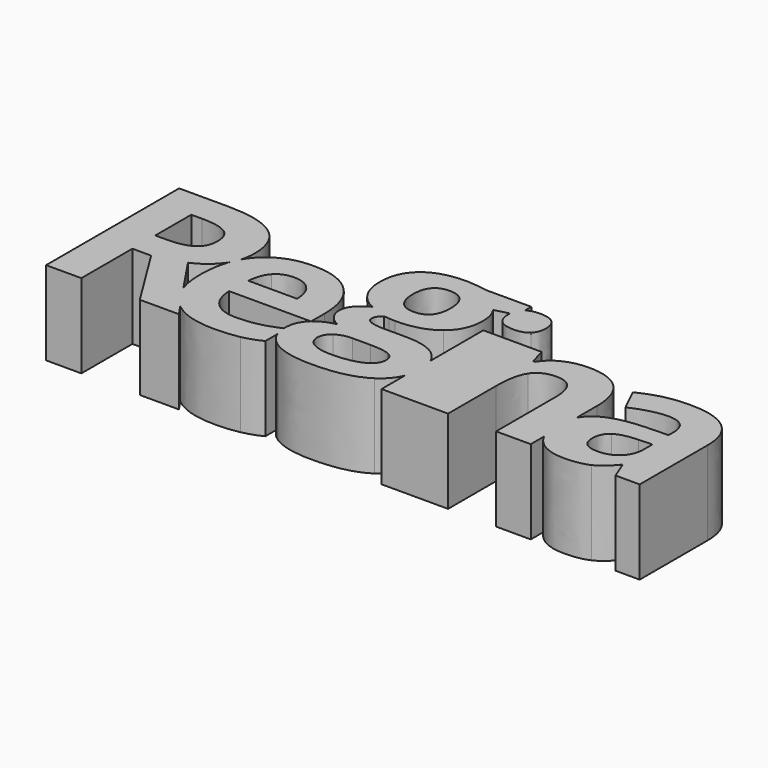
from build123d import *

# Parameters (mm, degrees)
F0_W     = 0.3376736111
F0_H     = 15.1649305556
F1_DEPTH = 10


with BuildPart() as f1:
    # F0 (on Top) → F1 (new body)
    with BuildSketch(Plane.XY):
        with BuildLine():
            Line((-92.0751941894, 48.5106287383), (-92.0751941894, 56.1191356828))
            Line((-92.0751941894, 56.1191356828), (-89.8399511338, 56.1191356828))
            Line((-89.8399511338, 56.1191356828), (-85.1047080783, 48.5106287383))
            Line((-85.1047080783, 48.5106287383), (-80.4389094672, 48.5106287383))
            add(Edge.make_bspline(
                [(-81.3450752093, 49.8327610005), (-80.7880974221, 49.0142652119), (-80.4389094672, 48.5106287383)],
                knots=[0.7421381255, 0.7421381255, 0.7421381255, 1, 1, 1], degree=2))
            add(Edge.make_bspline(
                [(-81.3450752093, 49.8327610005), (-81.5955524358, 50.0336184279), (-81.8260622449, 50.2597606828)],
                knots=[0.8881906105, 0.8881906105, 0.8881906105, 1, 1, 1], degree=2))
            add(Edge.make_bspline(
                [(-81.8260622449, 50.2597606828), (-82.9494876739, 51.3619001563), (-83.4607356006, 52.9628031948)],
                knots=[0, 0, 0, 0.5449204607, 0.5449204607, 0.5449204607], degree=2))
            add(Edge.make_bspline(
                [(-86.2722428005, 57.1521217939), (-84.6654101186, 54.7527718299), (-83.4607356006, 52.9628031948)],
                knots=[0, 0, 0, 0.3587347383, 0.3587347383, 0.3587347383], degree=2))
            add(Edge.make_bspline(
                [(-83.5443782172, 59.2875384605), (-84.5057497449, 57.9246912383), (-86.2722428005, 57.1521217939)],
                knots=[0, 0, 0, 1, 1, 1], degree=2))
            add(Edge.make_bspline(
                [(-83.3169283795, 59.6378595859), (-83.4229896752, 59.4596197344), (-83.5443782172, 59.2875384605)],
                knots=[0.8737339952, 0.8737339952, 0.8737339952, 1, 1, 1], degree=2))
            add(Edge.make_bspline(
                [(-83.3169283795, 59.6378595859), (-83.1169468888, 60.1870993216), (-82.8468970867, 60.6727349067)],
                knots=[0.547315758, 0.547315758, 0.547315758, 0.7390809605, 0.7390809605, 0.7390809605], degree=2))
            add(Edge.make_bspline(
                [(-82.5830066894, 62.3995176272), (-82.5830066894, 61.4831099117), (-82.8468970867, 60.6727349067)],
                knots=[0, 0, 0, 0.5239214334, 0.5239214334, 0.5239214334], degree=2))
            add(Edge.make_bspline(
                [(-84.5209407172, 66.8700037383), (-82.5830066894, 65.3986495716), (-82.5830066894, 62.3995176272)],
                knots=[0, 0, 0, 1, 1, 1], degree=2))
            add(Edge.make_bspline(
                [(-90.5040136338, 68.341357905), (-86.4588747449, 68.341357905), (-84.5209407172, 66.8700037383)],
                knots=[0, 0, 0, 1, 1, 1], degree=2))
            Line((-90.5040136338, 68.341357905), (-96.280923356, 68.341357905))
            Line((-96.280923356, 68.341357905), (-96.280923356, 48.5106287383))
            Line((-96.280923356, 48.5106287383), (-92.0751941894, 48.5106287383))
        make_face()
        with BuildLine():
            Line((-90.7210275227, 59.5392745716), (-92.0751941894, 59.5392745716))
            Line((-92.0751941894, 59.5392745716), (-92.0751941894, 64.8951773494))
            Line((-92.0751941894, 64.8951773494), (-90.7991525227, 64.8951773494))
            add(Edge.make_bspline(
                [(-87.7978504394, 64.298389155), (-88.7679025227, 64.8951773494), (-90.7991525227, 64.8951773494)],
                knots=[0, 0, 0, 1, 1, 1], degree=2))
            add(Edge.make_bspline(
                [(-86.827798356, 62.2910106828), (-86.827798356, 63.7016009605), (-87.7978504394, 64.298389155)],
                knots=[0, 0, 0, 1, 1, 1], degree=2))
            add(Edge.make_bspline(
                [(-87.7761490505, 60.2033370716), (-86.827798356, 60.8673995716), (-86.827798356, 62.2910106828)],
                knots=[0, 0, 0, 1, 1, 1], degree=2))
            add(Edge.make_bspline(
                [(-90.7210275227, 59.5392745716), (-88.7244997449, 59.5392745716), (-87.7761490505, 60.2033370716)],
                knots=[0, 0, 0, 1, 1, 1], degree=2))
        make_face(mode=Mode.SUBTRACT)
        with BuildLine():
            add(Edge.make_bspline(
                [(-81.3450752093, 49.8327610005), (-81.5955524358, 50.0336184279), (-81.8260622449, 50.2597606828)],
                knots=[0.8881906105, 0.8881906105, 0.8881906105, 1, 1, 1], degree=2))
            add(Edge.make_bspline(
                [(-83.4607356006, 52.9628031948), (-82.1732207841, 51.0497460958), (-81.3450752093, 49.8327610005)],
                knots=[0.3587347383, 0.3587347383, 0.3587347383, 0.7421381255, 0.7421381255, 0.7421381255], degree=2))
            add(Edge.make_bspline(
                [(-81.8260622449, 50.2597606828), (-82.9494876739, 51.3619001563), (-83.4607356006, 52.9628031948)],
                knots=[0, 0, 0, 0.5449204607, 0.5449204607, 0.5449204607], degree=2))
        make_face()
        with BuildLine():
            add(Edge.make_bspline(
                [(-83.4607356006, 52.9628031948), (-82.1732207841, 51.0497460958), (-81.3450752093, 49.8327610005)],
                knots=[0.3587347383, 0.3587347383, 0.3587347383, 0.7421381255, 0.7421381255, 0.7421381255], degree=2))
            add(Edge.make_bspline(
                [(-76.1055761338, 48.2371912383), (-79.3553360498, 48.2371912383), (-81.3450752093, 49.8327610005)],
                knots=[0, 0, 0, 0.8881906105, 0.8881906105, 0.8881906105], degree=2))
            add(Edge.make_bspline(
                [(-73.093423356, 48.5019481828), (-74.3260622449, 48.2371912383), (-76.1055761338, 48.2371912383)],
                knots=[0, 0, 0, 1, 1, 1], degree=2))
            add(Edge.make_bspline(
                [(-70.7757150227, 49.3092398494), (-71.8607844672, 48.7667051272), (-73.093423356, 48.5019481828)],
                knots=[0, 0, 0, 1, 1, 1], degree=2))
            Line((-70.7757150227, 49.3092398494), (-70.7757150227, 51.1056060376))
            add(Edge.make_bspline(
                [(-70.7757150227, 51.1056060376), (-71.0122636481, 51.6928550659), (-71.0346579529, 52.3932840978)],
                knots=[0.6050841239, 0.6050841239, 0.6050841239, 0.9626129027, 0.9626129027, 0.9626129027], degree=2))
            add(Edge.make_bspline(
                [(-73.3234580783, 51.603076655), (-72.2232110218, 51.8595399368), (-71.0346579529, 52.3932840978)],
                knots=[0, 0, 0, 0.9021242769, 0.9021242769, 0.9021242769], degree=2))
            add(Edge.make_bspline(
                [(-75.9146039116, 51.3187884605), (-74.5430761338, 51.3187884605), (-73.3234580783, 51.603076655)],
                knots=[0, 0, 0, 1, 1, 1], degree=2))
            add(Edge.make_bspline(
                [(-78.6533191894, 52.3083717939), (-77.6767566894, 51.3187884605), (-75.9146039116, 51.3187884605)],
                knots=[0, 0, 0, 1, 1, 1], degree=2))
            add(Edge.make_bspline(
                [(-79.6993261338, 55.060107905), (-79.6298816894, 53.2979551272), (-78.6533191894, 52.3083717939)],
                knots=[0, 0, 0, 1, 1, 1], degree=2))
            Line((-79.6993261338, 55.060107905), (-69.9524650122, 55.060107905))
            add(Edge.make_bspline(
                [(-69.9524650122, 55.060107905), (-69.936681448, 55.0742287409), (-69.9206803005, 55.0882059008)],
                knots=[0.1267074228, 0.1267074228, 0.1267074228, 0.1432135479, 0.1432135479, 0.1432135479], degree=2))
            Line((-69.9206803005, 55.0882059008), (-69.9206803005, 57.0696565161))
            add(Edge.make_bspline(
                [(-71.7110448838, 62.1282502661), (-69.9206803005, 60.2988231828), (-69.9206803005, 57.0696565161)],
                knots=[0, 0, 0, 1, 1, 1], degree=2))
            add(Edge.make_bspline(
                [(-76.7132150227, 63.9576773494), (-73.5014094672, 63.9576773494), (-71.7110448838, 62.1282502661)],
                knots=[0, 0, 0, 1, 1, 1], degree=2))
            add(Edge.make_bspline(
                [(-81.9823122449, 61.876514155), (-80.0769303005, 63.9576773494), (-76.7132150227, 63.9576773494)],
                knots=[0, 0, 0, 1, 1, 1], degree=2))
            add(Edge.make_bspline(
                [(-82.8468970867, 60.6727349067), (-82.4794626717, 61.3334990533), (-81.9823122449, 61.876514155)],
                knots=[0.7390809605, 0.7390809605, 0.7390809605, 1, 1, 1], degree=2))
            add(Edge.make_bspline(
                [(-82.8468970867, 60.6727349067), (-83.0230917793, 60.1316626418), (-83.3169283795, 59.6378595859)],
                knots=[0.5239214334, 0.5239214334, 0.5239214334, 0.8737339952, 0.8737339952, 0.8737339952], degree=2))
            add(Edge.make_bspline(
                [(-83.8876941894, 55.9845870716), (-83.8876941894, 58.070278198), (-83.3169283795, 59.6378595859)],
                knots=[0, 0, 0, 0.547315758, 0.547315758, 0.547315758], degree=2))
            add(Edge.make_bspline(
                [(-83.4607356006, 52.9628031948), (-83.8876941894, 54.2997656871), (-83.8876941894, 55.9845870716)],
                knots=[0.5449204607, 0.5449204607, 0.5449204607, 1, 1, 1], degree=2))
        make_face()
        with BuildLine():
            add(Edge.make_bspline(
                [(-76.687173356, 61.0149690161), (-78.0022775227, 61.0149690161), (-78.7488053005, 60.1816356828)],
                knots=[0, 0, 0, 1, 1, 1], degree=2))
            add(Edge.make_bspline(
                [(-74.5994997449, 60.1816356828), (-75.3720691894, 61.0149690161), (-76.687173356, 61.0149690161)],
                knots=[0, 0, 0, 1, 1, 1], degree=2))
            add(Edge.make_bspline(
                [(-73.796548356, 57.8161842939), (-73.8269303005, 59.3483023494), (-74.5994997449, 60.1816356828)],
                knots=[0, 0, 0, 1, 1, 1], degree=2))
            Line((-73.796548356, 57.8161842939), (-79.6038400227, 57.8161842939))
            add(Edge.make_bspline(
                [(-78.7488053005, 60.1816356828), (-79.4953330783, 59.3483023494), (-79.6038400227, 57.8161842939)],
                knots=[0, 0, 0, 1, 1, 1], degree=2))
        make_face(mode=Mode.SUBTRACT)
        with BuildLine():
            add(Edge.make_bspline(
                [(-82.8468970867, 60.6727349067), (-83.0230917793, 60.1316626418), (-83.3169283795, 59.6378595859)],
                knots=[0.5239214334, 0.5239214334, 0.5239214334, 0.8737339952, 0.8737339952, 0.8737339952], degree=2))
            add(Edge.make_bspline(
                [(-83.3169283795, 59.6378595859), (-83.1169468888, 60.1870993216), (-82.8468970867, 60.6727349067)],
                knots=[0.547315758, 0.547315758, 0.547315758, 0.7390809605, 0.7390809605, 0.7390809605], degree=2))
        make_face()
        with BuildLine():
            add(Edge.make_bspline(
                [(-70.7757150227, 51.1056060376), (-71.0122636481, 51.6928550659), (-71.0346579529, 52.3932840978)],
                knots=[0.6050841239, 0.6050841239, 0.6050841239, 0.9626129027, 0.9626129027, 0.9626129027], degree=2))
            Line((-70.7757150227, 51.1056060376), (-70.7757150227, 52.5123648494))
            add(Edge.make_bspline(
                [(-71.0346579529, 52.3932840978), (-70.9057062175, 52.4511925225), (-70.7757150227, 52.5123648494)],
                knots=[0.9021242769, 0.9021242769, 0.9021242769, 1, 1, 1], degree=2))
        make_face()
        with BuildLine():
            Line((-70.7757150227, 52.5123648494), (-70.7757150227, 51.1056060376))
            add(Edge.make_bspline(
                [(-69.3616525227, 49.4420523494), (-70.3753785288, 50.1117418094), (-70.7757150227, 51.1056060376)],
                knots=[0, 0, 0, 0.6050841239, 0.6050841239, 0.6050841239], degree=2))
            add(Edge.make_bspline(
                [(-64.5135622449, 48.3352815161), (-67.6863053005, 48.3352815161), (-69.3616525227, 49.4420523494)],
                knots=[0, 0, 0, 1, 1, 1], degree=2))
            add(Edge.make_bspline(
                [(-58.1463747449, 49.8001252661), (-60.3642566894, 48.3352815161), (-64.5135622449, 48.3352815161)],
                knots=[0, 0, 0, 1, 1, 1], degree=2))
            add(Edge.make_bspline(
                [(-56.2791872449, 51.9986929246), (-56.8104218659, 50.6824816197), (-58.1463747449, 49.8001252661)],
                knots=[0.3976447293, 0.3976447293, 0.3976447293, 1, 1, 1], degree=2))
            Line((-56.2791872449, 51.9986929246), (-56.2791872449, 55.8048836703))
            add(Edge.make_bspline(
                [(-57.2370865505, 57.0722606828), (-56.605926604, 56.5551910085), (-56.2791872449, 55.8048836703)],
                knots=[0, 0, 0, 0.4823192427, 0.4823192427, 0.4823192427], degree=2))
            add(Edge.make_bspline(
                [(-61.0413400227, 58.1443092939), (-58.5456803005, 58.1443092939), (-57.2370865505, 57.0722606828)],
                knots=[0, 0, 0, 1, 1, 1], degree=2))
            Line((-61.0413400227, 58.1443092939), (-63.6194650227, 58.1443092939))
            add(Edge.make_bspline(
                [(-65.898110856, 59.0384065161), (-65.898110856, 58.1443092939), (-63.6194650227, 58.1443092939)],
                knots=[0, 0, 0, 1, 1, 1], degree=2))
            add(Edge.make_bspline(
                [(-65.2600900227, 60.1234759605), (-65.898110856, 59.6373648494), (-65.898110856, 59.0384065161)],
                knots=[0, 0, 0, 1, 1, 1], degree=2))
            Line((-65.2600900227, 60.1234759605), (-64.648110856, 60.0583717939))
            Line((-64.648110856, 60.0583717939), (-63.9015830783, 60.0149690161))
            add(Edge.make_bspline(
                [(-59.1771907172, 61.3778162383), (-60.8807497449, 60.0149690161), (-63.9015830783, 60.0149690161)],
                knots=[0, 0, 0, 1, 1, 1], degree=2))
            add(Edge.make_bspline(
                [(-57.4736316894, 65.1842398494), (-57.4736316894, 62.7406634605), (-59.1771907172, 61.3778162383)],
                knots=[0, 0, 0, 1, 1, 1], degree=2))
            add(Edge.make_bspline(
                [(-58.124673356, 67.4628856828), (-57.4736316894, 66.442920405), (-57.4736316894, 65.1842398494)],
                knots=[0, 0, 0, 1, 1, 1], degree=2))
            Line((-58.124673356, 67.4628856828), (-56.4438986553, 67.8930656793))
            add(Edge.make_bspline(
                [(-56.4438986553, 67.8930656793), (-56.3604156684, 68.7958298216), (-55.7505414116, 69.2259574866)],
                knots=[0.0766657165, 0.0766657165, 0.0766657165, 0.5600715616, 0.5600715616, 0.5600715616], degree=2))
            Line((-55.7505414116, 69.2259574866), (-55.7505414116, 70.1755592939))
            Line((-55.7505414116, 70.1755592939), (-61.0413400227, 70.1755592939))
            add(Edge.make_bspline(
                [(-62.1589615505, 70.3426599883), (-61.2843955783, 70.2276426272), (-61.0413400227, 70.1755592939)],
                knots=[0, 0, 0, 1, 1, 1], degree=2))
            add(Edge.make_bspline(
                [(-63.671548356, 70.4576773494), (-63.0335275227, 70.4576773494), (-62.1589615505, 70.3426599883)],
                knots=[0, 0, 0, 1, 1, 1], degree=2))
            add(Edge.make_bspline(
                [(-68.2852636338, 69.1013405439), (-66.6706803005, 70.4576773494), (-63.671548356, 70.4576773494)],
                knots=[0, 0, 0, 1, 1, 1], degree=2))
            add(Edge.make_bspline(
                [(-69.8998469672, 65.2667051272), (-69.8998469672, 67.7450037383), (-68.2852636338, 69.1013405439)],
                knots=[0, 0, 0, 1, 1, 1], degree=2))
            add(Edge.make_bspline(
                [(-69.2010622449, 62.5779030439), (-69.8998469672, 63.7172259605), (-69.8998469672, 65.2667051272)],
                knots=[0, 0, 0, 1, 1, 1], degree=2))
            add(Edge.make_bspline(
                [(-67.3087011338, 60.9264273494), (-68.5022775227, 61.4385801272), (-69.2010622449, 62.5779030439)],
                knots=[0, 0, 0, 1, 1, 1], degree=2))
            add(Edge.make_bspline(
                [(-68.7605240505, 59.7914447105), (-68.2592219672, 60.3665315161), (-67.3087011338, 60.9264273494)],
                knots=[0, 0, 0, 1, 1, 1], degree=2))
            add(Edge.make_bspline(
                [(-69.2618261338, 58.3483023494), (-69.2618261338, 59.216357905), (-68.7605240505, 59.7914447105)],
                knots=[0, 0, 0, 1, 1, 1], degree=2))
            add(Edge.make_bspline(
                [(-68.7865657172, 57.0375384605), (-69.2618261338, 57.653857905), (-69.2618261338, 58.3483023494)],
                knots=[0, 0, 0, 1, 1, 1], degree=2))
            add(Edge.make_bspline(
                [(-67.6732844672, 56.1521217939), (-68.3113053005, 56.4212190161), (-68.7865657172, 57.0375384605)],
                knots=[0, 0, 0, 1, 1, 1], degree=2))
            add(Edge.make_bspline(
                [(-69.9206803005, 55.0882059008), (-69.0901058138, 55.8137208948), (-67.6732844672, 56.1521217939)],
                knots=[0.1432135479, 0.1432135479, 0.1432135479, 1, 1, 1], degree=2))
            Line((-69.9206803005, 55.0882059008), (-69.9206803005, 55.060107905))
            Line((-69.9206803005, 55.060107905), (-69.9524650122, 55.060107905))
            add(Edge.make_bspline(
                [(-70.1819650227, 54.8348474883), (-70.0736257767, 54.9517108882), (-69.9524650122, 55.060107905)],
                knots=[0, 0, 0, 0.1267074228, 0.1267074228, 0.1267074228], degree=2))
            add(Edge.make_bspline(
                [(-71.0369997449, 52.5410106828), (-71.0369997449, 53.9125384605), (-70.1819650227, 54.8348474883)],
                knots=[0, 0, 0, 1, 1, 1], degree=2))
            add(Edge.make_bspline(
                [(-71.0346579529, 52.3932840978), (-71.0369997449, 52.4665285748), (-71.0369997449, 52.5410106828)],
                knots=[0.9626129027, 0.9626129027, 0.9626129027, 1, 1, 1], degree=2))
            add(Edge.make_bspline(
                [(-71.0346579529, 52.3932840978), (-70.9057062175, 52.4511925225), (-70.7757150227, 52.5123648494)],
                knots=[0.9021242769, 0.9021242769, 0.9021242769, 1, 1, 1], degree=2))
        make_face()
        with BuildLine():
            add(Edge.make_bspline(
                [(-67.4562705783, 52.8665315161), (-67.4562705783, 52.0114967939), (-66.6359580783, 51.5232155439)],
                knots=[0, 0, 0, 1, 1, 1], degree=2))
            add(Edge.make_bspline(
                [(-66.6902115505, 54.2836322105), (-67.4562705783, 53.747607905), (-67.4562705783, 52.8665315161)],
                knots=[0, 0, 0, 1, 1, 1], degree=2))
            add(Edge.make_bspline(
                [(-64.7869997449, 54.8196565161), (-65.9241525227, 54.8196565161), (-66.6902115505, 54.2836322105)],
                knots=[0, 0, 0, 1, 1, 1], degree=2))
            Line((-64.7869997449, 54.8196565161), (-62.6429025227, 54.8196565161))
            add(Edge.make_bspline(
                [(-60.3360448838, 54.4941356828), (-61.0804025227, 54.8196565161), (-62.6429025227, 54.8196565161)],
                knots=[0, 0, 0, 1, 1, 1], degree=2))
            add(Edge.make_bspline(
                [(-59.5916872449, 53.3135801272), (-59.5916872449, 54.1686148494), (-60.3360448838, 54.4941356828)],
                knots=[0, 0, 0, 1, 1, 1], degree=2))
            add(Edge.make_bspline(
                [(-60.8525379394, 51.6469134605), (-59.5916872449, 52.2588926272), (-59.5916872449, 53.3135801272)],
                knots=[0, 0, 0, 1, 1, 1], degree=2))
            add(Edge.make_bspline(
                [(-64.335610856, 51.0349342939), (-62.1133886338, 51.0349342939), (-60.8525379394, 51.6469134605)],
                knots=[0, 0, 0, 1, 1, 1], degree=2))
            add(Edge.make_bspline(
                [(-66.6359580783, 51.5232155439), (-65.8156455783, 51.0349342939), (-64.335610856, 51.0349342939)],
                knots=[0, 0, 0, 1, 1, 1], degree=2))
        make_face(mode=Mode.SUBTRACT)
        with BuildLine():
            add(Edge.make_bspline(
                [(-65.9501941894, 65.2102815161), (-65.9501941894, 63.9776426272), (-65.3881282172, 63.2571565161)],
                knots=[0, 0, 0, 1, 1, 1], degree=2))
            add(Edge.make_bspline(
                [(-63.671548356, 67.9489967939), (-65.9501941894, 67.9489967939), (-65.9501941894, 65.2102815161)],
                knots=[0, 0, 0, 1, 1, 1], degree=2))
            add(Edge.make_bspline(
                [(-61.4232844672, 65.2102815161), (-61.4232844672, 67.9489967939), (-63.671548356, 67.9489967939)],
                knots=[0, 0, 0, 1, 1, 1], degree=2))
            add(Edge.make_bspline(
                [(-61.9658191894, 63.2571565161), (-61.4232844672, 63.9776426272), (-61.4232844672, 65.2102815161)],
                knots=[0, 0, 0, 1, 1, 1], degree=2))
            add(Edge.make_bspline(
                [(-63.671548356, 62.536670405), (-62.5083539116, 62.536670405), (-61.9658191894, 63.2571565161)],
                knots=[0, 0, 0, 1, 1, 1], degree=2))
            add(Edge.make_bspline(
                [(-65.3881282172, 63.2571565161), (-64.8260622449, 62.536670405), (-63.671548356, 62.536670405)],
                knots=[0, 0, 0, 1, 1, 1], degree=2))
        make_face(mode=Mode.SUBTRACT)
        with BuildLine():
            Line((-69.9206803005, 55.060107905), (-69.9206803005, 55.0882059008))
            add(Edge.make_bspline(
                [(-69.9524650122, 55.060107905), (-69.936681448, 55.0742287409), (-69.9206803005, 55.0882059008)],
                knots=[0.1267074228, 0.1267074228, 0.1267074228, 0.1432135479, 0.1432135479, 0.1432135479], degree=2))
            Line((-69.9524650122, 55.060107905), (-69.9206803005, 55.060107905))
        make_face()
        with BuildLine():
            Line((-56.2791872449, 55.8048836703), (-56.2791872449, 51.9986929246))
            add(Edge.make_bspline(
                [(-55.9284928005, 53.9255592939), (-55.9284928005, 52.8675895931), (-56.2791872449, 51.9986929246)],
                knots=[0, 0, 0, 0.3976447293, 0.3976447293, 0.3976447293], degree=2))
            add(Edge.make_bspline(
                [(-56.2791872449, 55.8048836703), (-55.9284928005, 54.999567115), (-55.9284928005, 53.9255592939)],
                knots=[0.4823192427, 0.4823192427, 0.4823192427, 1, 1, 1], degree=2))
        make_face()
        with BuildLine():
            add(Edge.make_bspline(
                [(-55.9284928005, 53.9255592939), (-55.9284928005, 52.8675895931), (-56.2791872449, 51.9986929246)],
                knots=[0, 0, 0, 0.3976447293, 0.3976447293, 0.3976447293], degree=2))
            Line((-56.2791872449, 51.9986929246), (-56.2791872449, 48.5106287383))
            Line((-56.2791872449, 48.5106287383), (-52.4805761338, 48.5106287383))
            Line((-52.4805761338, 48.5106287383), (-52.4805761338, 63.6755592939))
            Line((-52.4805761338, 63.6755592939), (-56.2791872449, 63.6755592939))
            Line((-56.2791872449, 63.6755592939), (-56.2791872449, 55.8048836703))
            add(Edge.make_bspline(
                [(-56.2791872449, 55.8048836703), (-55.9284928005, 54.999567115), (-55.9284928005, 53.9255592939)],
                knots=[0.4823192427, 0.4823192427, 0.4823192427, 1, 1, 1], degree=2))
        make_face()
        with Locations((-52.3117393283, 56.0930940161)):
            Rectangle(F0_W, F0_H)
        with BuildLine():
            Line((-52.1429025227, 63.6755592939), (-52.1429025227, 48.5106287383))
            Line((-52.1429025227, 48.5106287383), (-48.3442914116, 48.5106287383))
            Line((-48.3442914116, 48.5106287383), (-48.3442914116, 55.646045405))
            add(Edge.make_bspline(
                [(-47.5717219672, 59.4915315161), (-48.3442914116, 58.3326773494), (-48.3442914116, 55.646045405)],
                knots=[0, 0, 0, 1, 1, 1], degree=2))
            add(Edge.make_bspline(
                [(-45.0630414116, 60.6503856828), (-46.7991525227, 60.6503856828), (-47.5717219672, 59.4915315161)],
                knots=[0, 0, 0, 1, 1, 1], degree=2))
            add(Edge.make_bspline(
                [(-43.2032323838, 59.8300731828), (-43.7869997449, 60.6503856828), (-45.0630414116, 60.6503856828)],
                knots=[0, 0, 0, 1, 1, 1], degree=2))
            add(Edge.make_bspline(
                [(-42.6194650227, 57.3691356828), (-42.6194650227, 59.0097606828), (-43.2032323838, 59.8300731828)],
                knots=[0, 0, 0, 1, 1, 1], degree=2))
            Line((-42.6194650227, 57.3691356828), (-42.6194650227, 48.5106287383))
            Line((-42.6194650227, 48.5106287383), (-38.4831803005, 48.5106287383))
            Line((-38.4831803005, 48.5106287383), (-38.4831803005, 50.4888284278))
            add(Edge.make_bspline(
                [(-38.4831803005, 50.4888284278), (-39.0144303005, 51.5420079948), (-39.0144303005, 53.0418787383)],
                knots=[0.3492086265, 0.3492086265, 0.3492086265, 1, 1, 1], degree=2))
            add(Edge.make_bspline(
                [(-39.0144303005, 53.0418787383), (-39.0144303005, 54.3955344655), (-38.4831803005, 55.3504112724)],
                knots=[0, 0, 0, 0.5609393517, 0.5609393517, 0.5609393517], degree=2))
            Line((-38.4831803005, 55.3504112724), (-38.4831803005, 58.3977815161))
            add(Edge.make_bspline(
                [(-39.8525379394, 62.5275558216), (-38.4831803005, 61.0974342939), (-38.4831803005, 58.3977815161)],
                knots=[0, 0, 0, 1, 1, 1], degree=2))
            add(Edge.make_bspline(
                [(-43.8694650227, 63.9576773494), (-41.2218955783, 63.9576773494), (-39.8525379394, 62.5275558216)],
                knots=[0, 0, 0, 1, 1, 1], degree=2))
            add(Edge.make_bspline(
                [(-46.6277115505, 63.3956113772), (-45.4146039116, 63.9576773494), (-43.8694650227, 63.9576773494)],
                knots=[0, 0, 0, 1, 1, 1], degree=2))
            add(Edge.make_bspline(
                [(-48.5352636338, 61.7354551272), (-47.8408191894, 62.833545405), (-46.6277115505, 63.3956113772)],
                knots=[0, 0, 0, 1, 1, 1], degree=2))
            Line((-48.5352636338, 61.7354551272), (-48.765298356, 61.7354551272))
            Line((-48.765298356, 61.7354551272), (-49.3208539116, 63.6755592939))
            Line((-49.3208539116, 63.6755592939), (-52.1429025227, 63.6755592939))
        make_face()
        with BuildLine():
            add(Edge.make_bspline(
                [(-38.4831803005, 55.3504112724), (-38.067358218, 56.0978161899), (-37.3260622449, 56.6009065161)],
                knots=[0.5609393517, 0.5609393517, 0.5609393517, 1, 1, 1], degree=2))
            Line((-38.4831803005, 55.3504112724), (-38.4831803005, 50.4888284278))
            add(Edge.make_bspline(
                [(-37.7600900227, 49.4871912383), (-38.1981164683, 49.9237020215), (-38.4831803005, 50.4888284278)],
                knots=[0, 0, 0, 0.3492086265, 0.3492086265, 0.3492086265], degree=2))
            add(Edge.make_bspline(
                [(-34.3225900227, 48.2371912383), (-36.5057497449, 48.2371912383), (-37.7600900227, 49.4871912383)],
                knots=[0, 0, 0, 1, 1, 1], degree=2))
            add(Edge.make_bspline(
                [(-31.4406455783, 48.7471738772), (-32.5474164116, 48.2371912383), (-34.3225900227, 48.2371912383)],
                knots=[0, 0, 0, 1, 1, 1], degree=2))
            add(Edge.make_bspline(
                [(-29.2922080783, 50.5722606828), (-30.3338747449, 49.2571565161), (-31.4406455783, 48.7471738772)],
                knots=[0, 0, 0, 1, 1, 1], degree=2))
            Line((-29.2922080783, 50.5722606828), (-29.1837011338, 50.5722606828))
            Line((-29.1837011338, 50.5722606828), (-28.3807497449, 48.5106287383))
            Line((-28.3807497449, 48.5106287383), (-25.4944650227, 48.5106287383))
            Line((-25.4944650227, 48.5106287383), (-25.4944650227, 58.614795405))
            add(Edge.make_bspline(
                [(-27.1220691894, 62.657764155), (-25.4944650227, 61.3274690161), (-25.4944650227, 58.614795405)],
                knots=[0, 0, 0, 1, 1, 1], degree=2))
            add(Edge.make_bspline(
                [(-31.8008886338, 63.9880592939), (-28.749673356, 63.9880592939), (-27.1220691894, 62.657764155)],
                knots=[0, 0, 0, 1, 1, 1], degree=2))
            add(Edge.make_bspline(
                [(-37.6038400227, 62.6165315161), (-34.9866525227, 63.9880592939), (-31.8008886338, 63.9880592939)],
                knots=[0, 0, 0, 1, 1, 1], degree=2))
            Line((-37.6038400227, 62.6165315161), (-36.2366525227, 59.8213926272))
            add(Edge.make_bspline(
                [(-31.9614789116, 60.919482905), (-33.7800553005, 60.919482905), (-36.2366525227, 59.8213926272)],
                knots=[0, 0, 0, 1, 1, 1], degree=2))
            add(Edge.make_bspline(
                [(-29.6003678005, 58.614795405), (-29.6003678005, 60.919482905), (-31.9614789116, 60.919482905)],
                knots=[0, 0, 0, 1, 1, 1], degree=2))
            Line((-29.6003678005, 58.614795405), (-29.6003678005, 57.950732905))
            Line((-29.6003678005, 57.950732905), (-32.2349164116, 57.8682676272))
            add(Edge.make_bspline(
                [(-37.3260622449, 56.6009065161), (-35.6376941894, 57.7467398494), (-32.2349164116, 57.8682676272)],
                knots=[0, 0, 0, 1, 1, 1], degree=2))
        make_face()
        with BuildLine():
            Line((-31.2019303005, 55.4811148494), (-29.6003678005, 55.5375384605))
            Line((-29.6003678005, 55.5375384605), (-29.6003678005, 54.2875384605))
            add(Edge.make_bspline(
                [(-30.4619129394, 52.091357905), (-29.6003678005, 52.9203509605), (-29.6003678005, 54.2875384605)],
                knots=[0, 0, 0, 1, 1, 1], degree=2))
            add(Edge.make_bspline(
                [(-32.7644303005, 51.2623648494), (-31.3234580783, 51.2623648494), (-30.4619129394, 52.091357905)],
                knots=[0, 0, 0, 1, 1, 1], degree=2))
            add(Edge.make_bspline(
                [(-34.7696386338, 53.0158370716), (-34.7696386338, 51.2623648494), (-32.7644303005, 51.2623648494)],
                knots=[0, 0, 0, 1, 1, 1], degree=2))
            add(Edge.make_bspline(
                [(-33.8885622449, 54.8322433216), (-34.7696386338, 54.2354551272), (-34.7696386338, 53.0158370716)],
                knots=[0, 0, 0, 1, 1, 1], degree=2))
            add(Edge.make_bspline(
                [(-31.2019303005, 55.4811148494), (-33.007485856, 55.4290315161), (-33.8885622449, 54.8322433216)],
                knots=[0, 0, 0, 1, 1, 1], degree=2))
        make_face(mode=Mode.SUBTRACT)
        with BuildLine():
            Line((-38.4831803005, 50.4888284278), (-38.4831803005, 55.3504112724))
            add(Edge.make_bspline(
                [(-39.0144303005, 53.0418787383), (-39.0144303005, 54.3955344655), (-38.4831803005, 55.3504112724)],
                knots=[0, 0, 0, 0.5609393517, 0.5609393517, 0.5609393517], degree=2))
            add(Edge.make_bspline(
                [(-38.4831803005, 50.4888284278), (-39.0144303005, 51.5420079948), (-39.0144303005, 53.0418787383)],
                knots=[0.3492086265, 0.3492086265, 0.3492086265, 1, 1, 1], degree=2))
        make_face()
        with BuildLine():
            add(Edge.make_bspline(
                [(-56.4438986553, 67.8930656793), (-56.3604156684, 68.7958298216), (-55.7505414116, 69.2259574866)],
                knots=[0.0766657165, 0.0766657165, 0.0766657165, 0.5600715616, 0.5600715616, 0.5600715616], degree=2))
            Line((-56.4438986553, 67.8930656793), (-55.7505414116, 68.0705245716))
            Line((-55.7505414116, 68.0705245716), (-55.7505414116, 69.2259574866))
        make_face()
        with BuildLine():
            Line((-55.7505414116, 68.0705245716), (-56.4438986553, 67.8930656793))
            add(Edge.make_bspline(
                [(-56.4571386338, 67.5948301272), (-56.4571386338, 67.7498918628), (-56.4438986553, 67.8930656793)],
                knots=[0, 0, 0, 0.0766657165, 0.0766657165, 0.0766657165], degree=2))
            add(Edge.make_bspline(
                [(-54.2045344672, 65.5592398494), (-56.4571386338, 65.5592398494), (-56.4571386338, 67.5948301272)],
                knots=[0, 0, 0, 1, 1, 1], degree=2))
            add(Edge.make_bspline(
                [(-52.5139962727, 66.095264155), (-53.0760622449, 65.5592398494), (-54.2045344672, 65.5592398494)],
                knots=[0, 0, 0, 1, 1, 1], degree=2))
            add(Edge.make_bspline(
                [(-51.9519303005, 67.5948301272), (-51.9519303005, 66.6312884605), (-52.5139962727, 66.095264155)],
                knots=[0, 0, 0, 1, 1, 1], degree=2))
            add(Edge.make_bspline(
                [(-54.2045344672, 69.6173995716), (-51.9519303005, 69.6173995716), (-51.9519303005, 67.5948301272)],
                knots=[0, 0, 0, 1, 1, 1], degree=2))
            add(Edge.make_bspline(
                [(-55.7505414116, 69.2259574866), (-55.1955191005, 69.6173995716), (-54.2045344672, 69.6173995716)],
                knots=[0.5600715616, 0.5600715616, 0.5600715616, 1, 1, 1], degree=2))
            Line((-55.7505414116, 69.2259574866), (-55.7505414116, 68.0705245716))
        make_face()
    extrude(amount=F1_DEPTH)


solid = f1.part
